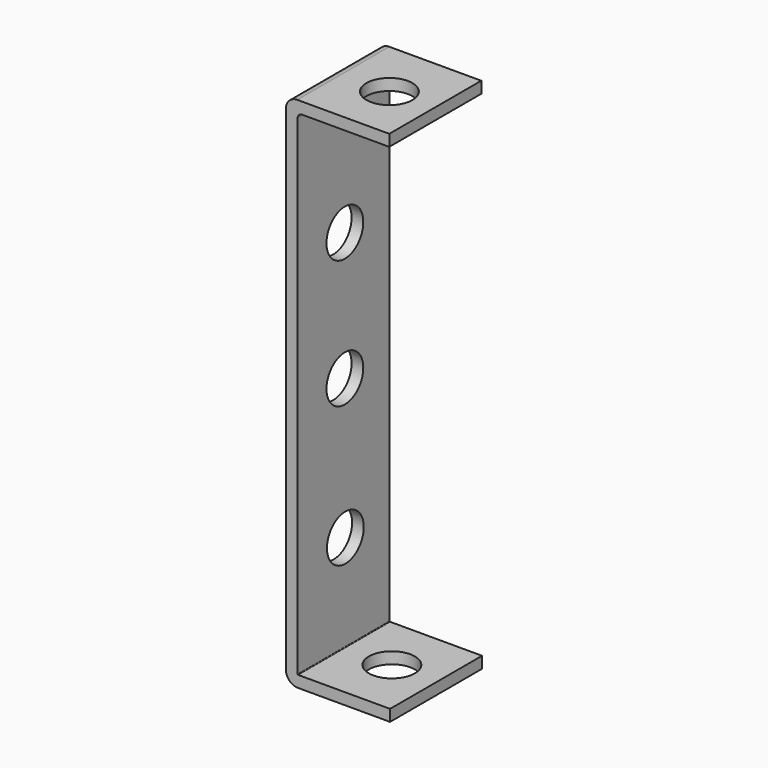
from build123d import *

# Parameters (mm, degrees)
CYLINDER030_R               = 2
CYLINDER030_DEPTH           = 10
CYLINDER030_PITCH_ANGLE     = 90
CYLINDER030_PLACEMENT_ANGLE = 7e-06
CYLINDER031_R               = 2
CYLINDER031_DEPTH           = 10
CYLINDER031_PITCH_ANGLE     = 90
CYLINDER031_PLACEMENT_ANGLE = 7e-06
CYLINDER026_R               = 2
CYLINDER026_DEPTH           = 2
CYLINDER026_ROLL_ANGLE      = -88.507054
CYLINDER026_PITCH_ANGLE     = -87.01751
CYLINDER026_PLACEMENT_ANGLE = -92.244015
CYLINDER028_R               = 2
CYLINDER028_DEPTH           = 2
CYLINDER028_PLACEMENT_ANGLE = 90.00001
CYLINDER029_R               = 2
CYLINDER029_DEPTH           = 2
CYLINDER029_ROLL_ANGLE      = 90
CYLINDER027_R               = 2
CYLINDER027_DEPTH           = 2
CYLINDER027_ROLL_ANGLE      = 90
CYLINDER025_R               = 2
CYLINDER025_DEPTH           = 2
CYLINDER025_ROLL_ANGLE      = -88.507054
CYLINDER025_PITCH_ANGLE     = -87.01751
CYLINDER025_PLACEMENT_ANGLE = -92.244015
PAD006_DEPTH                = 10
CUT027_PITCH_ANGLE          = 90
CUT027_PLACEMENT_ANGLE      = -90


with BuildPart() as cylinder030:
    # Cylinder030 → Cylinder030 (new body)
    with BuildSketch(Plane.XY):
        Circle(CYLINDER030_R)
    extrude(amount=CYLINDER030_DEPTH)


with BuildPart() as cylinder030_1:
    # Cylinder030 pitch: moved
    add(cylinder030.part.rotate(Axis((0, 0, 0), (0, 1, 0)), CYLINDER030_PITCH_ANGLE))


with BuildPart() as cylinder030_2:
    # Cylinder030 placement: moved
    add(cylinder030_1.part.moved(Location((15.49, 3.9, 4.87))).rotate(Axis((15.49, 3.9, 4.87), (0, 0, 1)), CYLINDER030_PLACEMENT_ANGLE))


with BuildPart() as cylinder031:
    # Cylinder031 → Cylinder031 (new body)
    with BuildSketch(Plane.XY):
        Circle(CYLINDER031_R)
    extrude(amount=CYLINDER031_DEPTH)


with BuildPart() as cylinder031_1:
    # Cylinder031 pitch: moved
    add(cylinder031.part.rotate(Axis((0, 0, 0), (0, 1, 0)), CYLINDER031_PITCH_ANGLE))


with BuildPart() as cylinder031_2:
    # Cylinder031 placement: moved
    add(cylinder031_1.part.moved(Location((-28.4147, 3.9, 5.14))).rotate(Axis((-28.4147, 3.9, 5.14), (0, 0, 1)), CYLINDER031_PLACEMENT_ANGLE))


with BuildPart() as cylinder026:
    # Cylinder026 → Cylinder026 (new body)
    with BuildSketch(Plane.XY):
        Circle(CYLINDER026_R)
    extrude(amount=CYLINDER026_DEPTH)


with BuildPart() as cylinder026_1:
    # Cylinder026 roll: moved
    add(cylinder026.part.rotate(Axis((0, 0, 0), (1, 0, 0)), CYLINDER026_ROLL_ANGLE))


with BuildPart() as cylinder026_2:
    # Cylinder026 pitch: moved
    add(cylinder026_1.part.rotate(Axis((0, 0, 0), (0, 1, 0)), CYLINDER026_PITCH_ANGLE))


with BuildPart() as cylinder026_3:
    # Cylinder026 placement: moved
    add(cylinder026_2.part.moved(Location((-26, 5.29, 4.9))).rotate(Axis((-26, 5.29, 4.9), (0, 0, 1)), CYLINDER026_PLACEMENT_ANGLE))


with BuildPart() as cylinder028:
    # Cylinder028 → Cylinder028 (new body)
    with BuildSketch(Plane.XY):
        Circle(CYLINDER028_R)
    extrude(amount=CYLINDER028_DEPTH)


with BuildPart() as cylinder028_1:
    # Cylinder028 placement: moved
    add(cylinder028.part.moved(Location((-11.1555, 0, 4.86401))).rotate(Axis((-11.1555, 0, 4.86401), (1, 0, 0)), CYLINDER028_PLACEMENT_ANGLE))


with BuildPart() as cylinder029:
    # Cylinder029 → Cylinder029 (new body)
    with BuildSketch(Plane.XY):
        Circle(CYLINDER029_R)
    extrude(amount=CYLINDER029_DEPTH)


with BuildPart() as cylinder029_1:
    # Cylinder029 roll: moved
    add(cylinder029.part.rotate(Axis((0, 0, 0), (1, 0, 0)), CYLINDER029_ROLL_ANGLE))


with BuildPart() as cylinder029_2:
    # Cylinder029 placement: moved
    add(cylinder029_1.part.moved(Location((0, 0, 4.86401))))


with BuildPart() as cylinder027:
    # Cylinder027 → Cylinder027 (new body)
    with BuildSketch(Plane.XY):
        Circle(CYLINDER027_R)
    extrude(amount=CYLINDER027_DEPTH)


with BuildPart() as cylinder027_1:
    # Cylinder027 roll: moved
    add(cylinder027.part.rotate(Axis((0, 0, 0), (1, 0, 0)), CYLINDER027_ROLL_ANGLE))


with BuildPart() as cylinder027_2:
    # Cylinder027 placement: moved
    add(cylinder027_1.part.moved(Location((12.2129, 0, 4.81114))))


with BuildPart() as cylinder025:
    # Cylinder025 → Cylinder025 (new body)
    with BuildSketch(Plane.XY):
        Circle(CYLINDER025_R)
    extrude(amount=CYLINDER025_DEPTH)


with BuildPart() as cylinder025_1:
    # Cylinder025 roll: moved
    add(cylinder025.part.rotate(Axis((0, 0, 0), (1, 0, 0)), CYLINDER025_ROLL_ANGLE))


with BuildPart() as cylinder025_2:
    # Cylinder025 pitch: moved
    add(cylinder025_1.part.rotate(Axis((0, 0, 0), (0, 1, 0)), CYLINDER025_PITCH_ANGLE))


with BuildPart() as cylinder025_3:
    # Cylinder025 placement: moved
    add(cylinder025_2.part.moved(Location((25, 5.38, 4.9))).rotate(Axis((25, 5.38, 4.9), (0, 0, 1)), CYLINDER025_PLACEMENT_ANGLE))


with BuildPart() as cut027:
    # Sketch007 → Pad006 (new body)
    with BuildSketch(Plane.XY):
        with BuildLine():
            Line((20.546084, -1.208272), (-22.415471, -1.208272))
            ThreePointArc((-23.400725, -0.223018), (-23.112151, -0.919698), (-22.415471, -1.208272))
            Line((-23.400725, 7.776982), (-23.400725, -0.223018))
            Line((-23.400725, 7.776982), (-22.400725, 7.776982))
            Line((-22.400725, 7.776982), (-22.400725, 0.197829))
            ThreePointArc((-22.400725, 0.197829), (-22.286166, -0.07874), (-22.009596, -0.193299))
            Line((-22.009596, -0.193299), (20.555186, -0.193299))
            ThreePointArc((20.555186, -0.193299), (20.586324, -0.180401), (20.599222, -0.149263))
            Line((20.599222, 7.844865), (20.599222, -0.149263))
            Line((21.599222, 7.844865), (20.599222, 7.844865))
            Line((21.599222, 7.844865), (21.599222, -0.155135))
            ThreePointArc((20.546084, -1.208272), (21.290765, -0.899815), (21.599222, -0.155135))
        make_face()
    extrude(amount=PAD006_DEPTH)

    # Cut005: cut Cylinder025
    add(cylinder025_3.part, mode=Mode.SUBTRACT)

    # Cut006: cut Cylinder027
    add(cylinder027_2.part, mode=Mode.SUBTRACT)

    # Cut007: cut Cylinder029
    add(cylinder029_2.part, mode=Mode.SUBTRACT)

    # Cut008: cut Cylinder028
    add(cylinder028_1.part, mode=Mode.SUBTRACT)

    # Cut009: cut Cylinder026
    add(cylinder026_3.part, mode=Mode.SUBTRACT)

    # Cut018: cut Cylinder031
    add(cylinder031_2.part, mode=Mode.SUBTRACT)

    # Cut027: cut Cylinder030
    add(cylinder030_2.part, mode=Mode.SUBTRACT)


with BuildPart() as cut027_1:
    # Cut027 pitch: moved
    add(cut027.part.rotate(Axis((0, 0, 0), (0, 1, 0)), CUT027_PITCH_ANGLE))


with BuildPart() as cut027_2:
    # Cut027 placement: moved
    add(cut027_1.part.moved(Location((-113.8, -33.8, 26))).rotate(Axis((-113.8, -33.8, 26), (0, 0, 1)), CUT027_PLACEMENT_ANGLE))


solid = cut027_2.part
